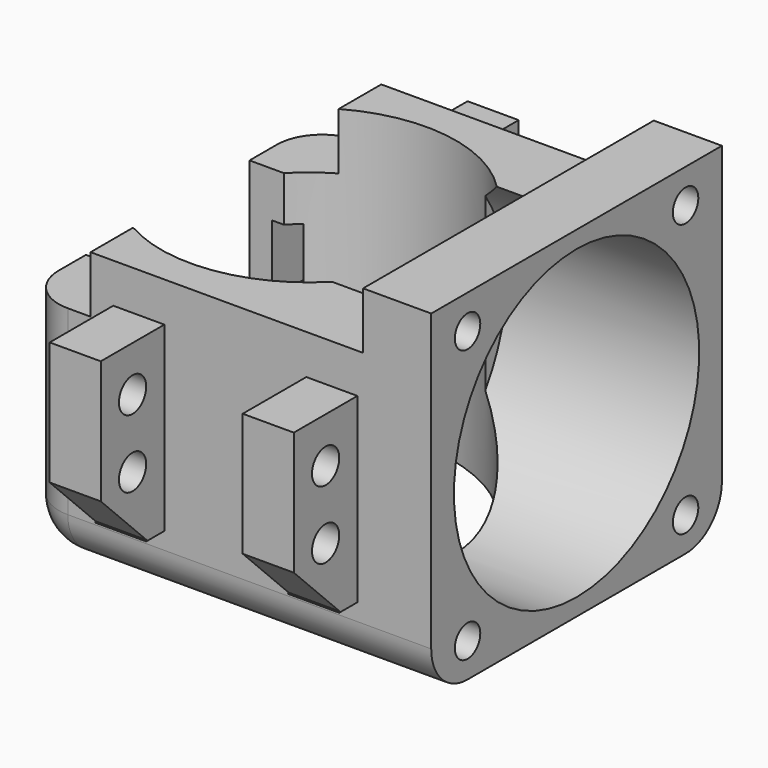
from build123d import *

# Parameters (mm, degrees)
BOX010_W                = 22
BOX010_H                = 10
BOX010_DEPTH            = 10
BOX010_ROLL_ANGLE       = 45
BOX009_W                = 22
BOX009_H                = 10
BOX009_DEPTH            = 10
BOX009_ROLL_ANGLE       = 45
CYLINDER010_R           = 1.5
CYLINDER010_DEPTH       = 40
CYLINDER010_PITCH_ANGLE = 90
CYLINDER011_R           = 1.5
CYLINDER011_DEPTH       = 40
CYLINDER011_PITCH_ANGLE = 90
CYLINDER012_R           = 1.5
CYLINDER012_DEPTH       = 40
CYLINDER012_PITCH_ANGLE = 90
CYLINDER009_R           = 1.5
CYLINDER009_DEPTH       = 40
CYLINDER009_PITCH_ANGLE = 90
BOX004_W                = 2
BOX004_H                = 32
BOX004_DEPTH            = 6
CYLINDER_R              = 13
CYLINDER_DEPTH          = 25
CYLINDER001_R           = 13.5
CYLINDER001_DEPTH       = 18
CYLINDER001_PITCH_ANGLE = 90
CYLINDER003_R           = 1.4
CYLINDER003_DEPTH       = 20
CYLINDER003_PITCH_ANGLE = 90
CYLINDER005_R           = 1.4
CYLINDER005_DEPTH       = 20
CYLINDER005_PITCH_ANGLE = 90
CYLINDER004_R           = 1.4
CYLINDER004_DEPTH       = 20
CYLINDER004_PITCH_ANGLE = 90
CYLINDER002_R           = 1.4
CYLINDER002_DEPTH       = 20
CYLINDER002_PITCH_ANGLE = 90
BOX002_W                = 6
BOX002_H                = 7
BOX002_DEPTH            = 20
BOX006_W                = 4.5
BOX006_H                = 7
BOX006_DEPTH            = 16
BOX007_W                = 4.5
BOX007_H                = 7
BOX007_DEPTH            = 16
BOX008_W                = 4.5
BOX008_H                = 7
BOX008_DEPTH            = 16
BOX005_W                = 4.5
BOX005_H                = 7
BOX005_DEPTH            = 16
BOX003_W                = 6
BOX003_H                = 7
BOX003_DEPTH            = 20
BOX001_W                = 6
BOX001_H                = 32
BOX001_DEPTH            = 30
BOX_W                   = 24
BOX_H                   = 32
BOX_DEPTH               = 25
FILLET_R                = 4
FILLET001_R             = 4
FILLET002_R             = 4
FILLET003_R             = 4


with BuildPart() as cube010:
    # Box010 → Box010 (new body)
    with BuildSketch(Plane.XY):
        with Locations((11, 5)):
            Rectangle(BOX010_W, BOX010_H)
    extrude(amount=BOX010_DEPTH)


with BuildPart() as cube010_1:
    # Box010 roll: moved
    add(cube010.part.rotate(Axis((0, 0, 0), (1, 0, 0)), BOX010_ROLL_ANGLE))


with BuildPart() as cube010_2:
    # Box010 placement: moved
    add(cube010_1.part.moved(Location((2, 41, -7))))


with BuildPart() as fusionwingcuts:
    # Box009 → Box009 (new body)
    with BuildSketch(Plane.XY):
        with Locations((11, 5)):
            Rectangle(BOX009_W, BOX009_H)
    extrude(amount=BOX009_DEPTH)


with BuildPart() as fusionwingcuts_1:
    # Box009 roll: moved
    add(fusionwingcuts.part.rotate(Axis((0, 0, 0), (1, 0, 0)), BOX009_ROLL_ANGLE))


with BuildPart() as fusionwingcuts_2:
    # Box009 placement: moved
    add(fusionwingcuts_1.part.moved(Location((2, -9, -7))))

    # Fusion005: union Cube010
    add(cube010_2.part)


with BuildPart() as fusionwingcuts_3:
    # Fusion005 placement: moved
    add(fusionwingcuts_2.part.moved(Location((0, 0, 5.5))))


with BuildPart() as cylinder010:
    # Cylinder010 → Cylinder010 (new body)
    with BuildSketch(Plane.XY):
        Circle(CYLINDER010_R)
    extrude(amount=CYLINDER010_DEPTH)


with BuildPart() as cylinder010_1:
    # Cylinder010 pitch: moved
    add(cylinder010.part.rotate(Axis((0, 0, 0), (0, 1, 0)), CYLINDER010_PITCH_ANGLE))


with BuildPart() as cylinder010_2:
    # Cylinder010 placement: moved
    add(cylinder010_1.part.moved(Location((0, -3.5, 6))))


with BuildPart() as cylinder011:
    # Cylinder011 → Cylinder011 (new body)
    with BuildSketch(Plane.XY):
        Circle(CYLINDER011_R)
    extrude(amount=CYLINDER011_DEPTH)


with BuildPart() as cylinder011_1:
    # Cylinder011 pitch: moved
    add(cylinder011.part.rotate(Axis((0, 0, 0), (0, 1, 0)), CYLINDER011_PITCH_ANGLE))


with BuildPart() as cylinder011_2:
    # Cylinder011 placement: moved
    add(cylinder011_1.part.moved(Location((0, 35.5, 12))))


with BuildPart() as cylinder012:
    # Cylinder012 → Cylinder012 (new body)
    with BuildSketch(Plane.XY):
        Circle(CYLINDER012_R)
    extrude(amount=CYLINDER012_DEPTH)


with BuildPart() as cylinder012_1:
    # Cylinder012 pitch: moved
    add(cylinder012.part.rotate(Axis((0, 0, 0), (0, 1, 0)), CYLINDER012_PITCH_ANGLE))


with BuildPart() as cylinder012_2:
    # Cylinder012 placement: moved
    add(cylinder012_1.part.moved(Location((0, 35.5, 6))))


with BuildPart() as fusionwingscrews:
    # Cylinder009 → Cylinder009 (new body)
    with BuildSketch(Plane.XY):
        Circle(CYLINDER009_R)
    extrude(amount=CYLINDER009_DEPTH)


with BuildPart() as fusionwingscrews_1:
    # Cylinder009 pitch: moved
    add(fusionwingscrews.part.rotate(Axis((0, 0, 0), (0, 1, 0)), CYLINDER009_PITCH_ANGLE))


with BuildPart() as fusionwingscrews_2:
    # Cylinder009 placement: moved
    add(fusionwingscrews_1.part.moved(Location((0, -3.5, 12))))

    # Fusion004: union Cylinder010, Cylinder011, Cylinder012
    add(cylinder010_2.part)
    add(cylinder011_2.part)
    add(cylinder012_2.part)


with BuildPart() as fusionwingscrews_3:
    # Fusion004 placement: moved
    add(fusionwingscrews_2.part.moved(Location((0, 0, 5.5))))


with BuildPart() as obj1:
    # Box004 → Box004 (new body)
    with BuildSketch(Plane(origin=(-4, 0, 10), x_dir=(1, 0, 0), z_dir=(0, 0, 1))):
        with Locations((1, 16)):
            Rectangle(BOX004_W, BOX004_H)
    extrude(amount=BOX004_DEPTH)


with BuildPart() as cylinderheatsink:
    # Cylinder → Cylinder (new body)
    with BuildSketch(Plane(origin=(6.4, 16, 0), x_dir=(1, 0, 0), z_dir=(0, 0, 1))):
        Circle(CYLINDER_R)
    extrude(amount=CYLINDER_DEPTH)


with BuildPart() as cylinderfan:
    # Cylinder001 → Cylinder001 (new body)
    with BuildSketch(Plane.XY):
        Circle(CYLINDER001_R)
    extrude(amount=CYLINDER001_DEPTH)


with BuildPart() as cylinderfan_1:
    # Cylinder001 pitch: moved
    add(cylinderfan.part.rotate(Axis((0, 0, 0), (0, 1, 0)), CYLINDER001_PITCH_ANGLE))


with BuildPart() as cylinderfan_2:
    # Cylinder001 placement: moved
    add(cylinderfan_1.part.moved(Location((13, 16, 15))))


with BuildPart() as obj2:
    # Cylinder003 → Cylinder003 (new body)
    with BuildSketch(Plane.XY):
        Circle(CYLINDER003_R)
    extrude(amount=CYLINDER003_DEPTH)


with BuildPart() as obj2_1:
    # Cylinder003 pitch: moved
    add(obj2.part.rotate(Axis((0, 0, 0), (0, 1, 0)), CYLINDER003_PITCH_ANGLE))


with BuildPart() as obj2_2:
    # Cylinder003 placement: moved
    add(obj2_1.part.moved(Location((20, 4, 27))))


with BuildPart() as obj3:
    # Cylinder005 → Cylinder005 (new body)
    with BuildSketch(Plane.XY):
        Circle(CYLINDER005_R)
    extrude(amount=CYLINDER005_DEPTH)


with BuildPart() as obj3_1:
    # Cylinder005 pitch: moved
    add(obj3.part.rotate(Axis((0, 0, 0), (0, 1, 0)), CYLINDER005_PITCH_ANGLE))


with BuildPart() as obj3_2:
    # Cylinder005 placement: moved
    add(obj3_1.part.moved(Location((20, 28, 3))))


with BuildPart() as obj4:
    # Cylinder004 → Cylinder004 (new body)
    with BuildSketch(Plane.XY):
        Circle(CYLINDER004_R)
    extrude(amount=CYLINDER004_DEPTH)


with BuildPart() as obj4_1:
    # Cylinder004 pitch: moved
    add(obj4.part.rotate(Axis((0, 0, 0), (0, 1, 0)), CYLINDER004_PITCH_ANGLE))


with BuildPart() as obj4_2:
    # Cylinder004 placement: moved
    add(obj4_1.part.moved(Location((20, 28, 27))))


with BuildPart() as fusioncuts:
    # Cylinder002 → Cylinder002 (new body)
    with BuildSketch(Plane.XY):
        Circle(CYLINDER002_R)
    extrude(amount=CYLINDER002_DEPTH)


with BuildPart() as fusioncuts_1:
    # Cylinder002 pitch: moved
    add(fusioncuts.part.rotate(Axis((0, 0, 0), (0, 1, 0)), CYLINDER002_PITCH_ANGLE))


with BuildPart() as fusioncuts_2:
    # Cylinder002 placement: moved
    add(fusioncuts_1.part.moved(Location((20, 4, 3))))

    # Fusion001: union obj2, obj3, obj4
    add(obj2_2.part)
    add(obj3_2.part)
    add(obj4_2.part)

    # Fusion: union FusionWingCuts, FusionWingScrews, obj1, CylinderHeatSink, CylinderFan
    add(fusionwingcuts_3.part)
    add(fusionwingscrews_3.part)
    add(obj1.part)
    add(cylinderheatsink.part)
    add(cylinderfan_2.part)


with BuildPart() as obj5:
    # Box002 → Box002 (new body)
    with BuildSketch(Plane(origin=(-6, 0, 0), x_dir=(1, 0, 0), z_dir=(0, 0, 1))):
        with Locations((3, 3.5)):
            Rectangle(BOX002_W, BOX002_H)
    extrude(amount=BOX002_DEPTH)


with BuildPart() as cube006:
    # Box006 → Box006 (new body)
    with BuildSketch(Plane(origin=(19, -7, 0), x_dir=(1, 0, 0), z_dir=(0, 0, 1))):
        with Locations((2.25, 3.5)):
            Rectangle(BOX006_W, BOX006_H)
    extrude(amount=BOX006_DEPTH)


with BuildPart() as cube007:
    # Box007 → Box007 (new body)
    with BuildSketch(Plane(origin=(2, 32, 0), x_dir=(1, 0, 0), z_dir=(0, 0, 1))):
        with Locations((2.25, 3.5)):
            Rectangle(BOX007_W, BOX007_H)
    extrude(amount=BOX007_DEPTH)


with BuildPart() as cube008:
    # Box008 → Box008 (new body)
    with BuildSketch(Plane(origin=(19, 32, 0), x_dir=(1, 0, 0), z_dir=(0, 0, 1))):
        with Locations((2.25, 3.5)):
            Rectangle(BOX008_W, BOX008_H)
    extrude(amount=BOX008_DEPTH)


with BuildPart() as fusionwings:
    # Box005 → Box005 (new body)
    with BuildSketch(Plane(origin=(2, -7, 0), x_dir=(1, 0, 0), z_dir=(0, 0, 1))):
        with Locations((2.25, 3.5)):
            Rectangle(BOX005_W, BOX005_H)
    extrude(amount=BOX005_DEPTH)

    # Fusion006: union Cube006, Cube007, Cube008
    add(cube006.part)
    add(cube007.part)
    add(cube008.part)


with BuildPart() as fusionwings_1:
    # Fusion006 placement: moved
    add(fusionwings.part.moved(Location((0, 0, 5.5))))


with BuildPart() as obj6:
    # Box003 → Box003 (new body)
    with BuildSketch(Plane(origin=(-6, 25, 0), x_dir=(1, 0, 0), z_dir=(0, 0, 1))):
        with Locations((3, 3.5)):
            Rectangle(BOX003_W, BOX003_H)
    extrude(amount=BOX003_DEPTH)


with BuildPart() as obj7:
    # Box001 → Box001 (new body)
    with BuildSketch(Plane(origin=(24, 0, 0), x_dir=(1, 0, 0), z_dir=(0, 0, 1))):
        with Locations((3, 16)):
            Rectangle(BOX001_W, BOX001_H)
    extrude(amount=BOX001_DEPTH)


with BuildPart() as obj8:
    # Box → Box (new body)
    with BuildSketch(Plane.XY):
        with Locations((12, 16)):
            Rectangle(BOX_W, BOX_H)
    extrude(amount=BOX_DEPTH)

    # Fusion007: union obj5, FusionWings, obj6, obj7
    add(obj5.part)
    add(fusionwings_1.part)
    add(obj6.part)
    add(obj7.part)

    # Fillet
    fillet_edges = [obj8.edges().sort_by_distance(p)[0] for p in [
        (-6, 3.5, 0),
    ]]
    fillet(fillet_edges, radius=FILLET_R)

    # Fillet001
    fillet001_edges = [obj8.edges().sort_by_distance(p)[0] for p in [
        (12, 0, 0),
    ]]
    fillet(fillet001_edges, radius=FILLET001_R)

    # Fillet002
    fillet002_edges = [obj8.edges().sort_by_distance(p)[0] for p in [
        (12, 32, 0),
    ]]
    fillet(fillet002_edges, radius=FILLET002_R)

    # Fillet003
    fillet003_edges = [obj8.edges().sort_by_distance(p)[0] for p in [
        (-6, 26.5, 0),
    ]]
    fillet(fillet003_edges, radius=FILLET003_R)

    # Cut: cut FusionCUTS
    add(fusioncuts_2.part, mode=Mode.SUBTRACT)


solid = obj8.part
